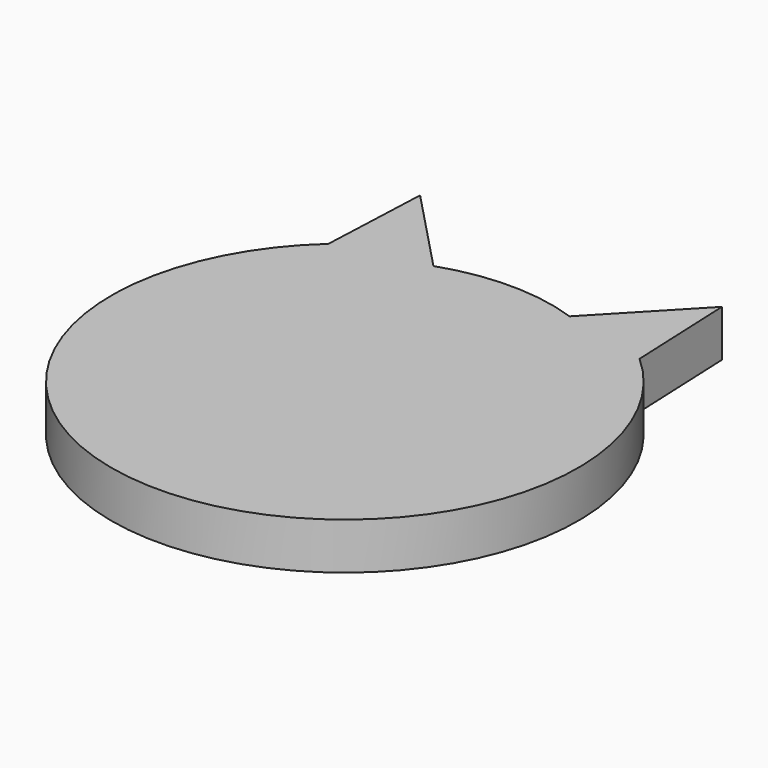
from build123d import *

# Parameters (mm, degrees)
PAD_DEPTH = 6


with BuildPart() as part:
    # Sketch → Pad (new body)
    with BuildSketch(Plane.XY):
        with BuildLine():
            ThreePointArc((-20, 22.36068), (0, -30), (20, 22.36068))
            Line((20, 22.36068), (19.400305, 36.34783))
            Line((19.400305, 36.34783), (8.749783, 25.182296))
            ThreePointArc((8.749783, 25.182296), (0, 26.659084), (-8.749783, 25.182296))
            Line((-19.400305, 36.34783), (-8.749783, 25.182296))
            Line((-20, 22.36068), (-19.400305, 36.34783))
        make_face()
    extrude(amount=-PAD_DEPTH)


solid = part.part
